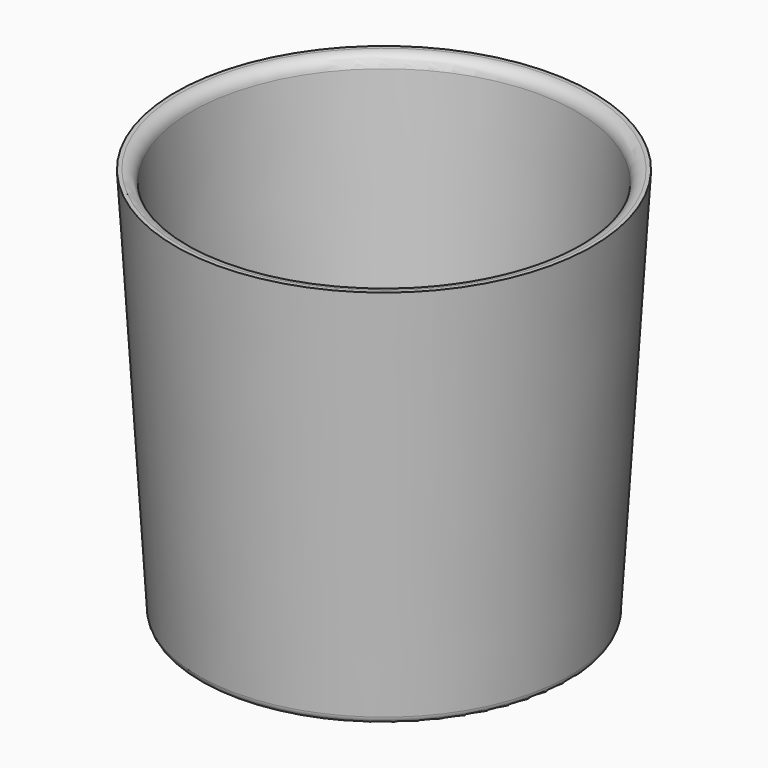
from build123d import *


with BuildPart() as f1:
    # F0 (on Right) → F1 (revolve)
    with BuildSketch(Plane.YZ):
        with BuildLine():
            Line((-73.025, 0), (0, 0))
            Line((0, 0), (0, 5.122894))
            Line((0, 5.122894), (-66.973096, 5.122894))
            ThreePointArc((-66.973096, 5.122894), (-69.149371, 5.986086), (-70.142311, 8.106309))
            Line((-70.142311, 8.106309), (-79.13973, 156.942341))
            ThreePointArc((-79.13973, 156.942341), (-80.728433, 160.334697), (-84.210473, 161.715805))
            Line((-84.210473, 161.715805), (-85.789887, 161.715805))
            Line((-85.789887, 161.715805), (-76.194214, 2.983415))
            ThreePointArc((-76.194214, 2.983415), (-75.201275, 0.863193), (-73.025, 0))
        make_face()
    revolve(axis=Axis((0, 0, 2.561447), (0, 0, 1)))


solid = f1.part
